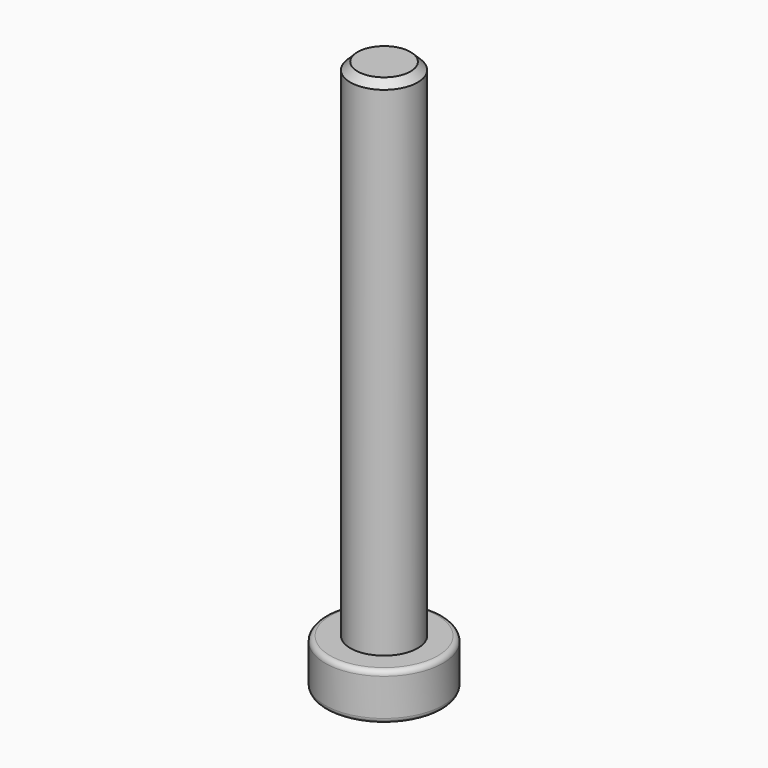
from build123d import *

# Parameters (mm, degrees)
SKETCH_R        = 3.5
PAD_DEPTH       = 2.8
SKETCH001_R     = 2
PAD001_DEPTH    = 30
CHAMFER_SIZE    = 0.43
POCKET_DEPTH    = 2
CHAMFER001_SIZE = 0.6
SKETCH003_R     = 1.05
POCKET001_DEPTH = 1.5
FILLET_R        = 0.3


with BuildPart() as part:
    # Sketch → Pad (new body)
    with BuildSketch(Plane.XY):
        Circle(SKETCH_R)
    extrude(amount=PAD_DEPTH)

    # Sketch001 → Pad001 (new body)
    with BuildSketch(Plane.XY.offset(2.8)):
        Circle(SKETCH001_R)
    extrude(amount=PAD001_DEPTH)

    # Chamfer
    chamfer_edges = [part.edges().sort_by_distance(p)[0] for p in [
        (-2, 0, 32.8),
    ]]
    chamfer(chamfer_edges, length=CHAMFER_SIZE)

    # Sketch002 → Pocket (cut)
    with BuildSketch(Plane(origin=(0, 0, 0), x_dir=(1, 0, 0), z_dir=(0, 0, -1))):
        Polygon((-0.866025, 1.5), (0.866025, 1.5), (1.732051, 0), (0.866025, -1.5), (-0.866025, -1.5), (-1.732051, 0), align=None)
    extrude(amount=-POCKET_DEPTH, mode=Mode.SUBTRACT)

    # Chamfer001
    chamfer001_edges = [part.edges().sort_by_distance(p)[0] for p in [
        (0, -1.5, 2),
        (1.299038, -0.75, 2),
        (1.299038, 0.75, 2),
        (0, 1.5, 2),
        (-1.299038, 0.75, 2),
        (-1.299038, -0.75, 2),
    ]]
    chamfer(chamfer001_edges, length=CHAMFER001_SIZE)

    # Sketch003 → Pocket001 (cut, symmetric)
    with BuildSketch(Plane(origin=(0, 0, 2), x_dir=(1, 0, 0), z_dir=(0, 0, -1))):
        Circle(SKETCH003_R)
    extrude(amount=POCKET001_DEPTH, both=True, mode=Mode.SUBTRACT)

    # Fillet
    fillet_edges = [part.edges().sort_by_distance(p)[0] for p in [
        (-3.5, 0, 0),
        (-3.5, 0, 2.8),
    ]]
    fillet(fillet_edges, radius=FILLET_R)


solid = part.part
